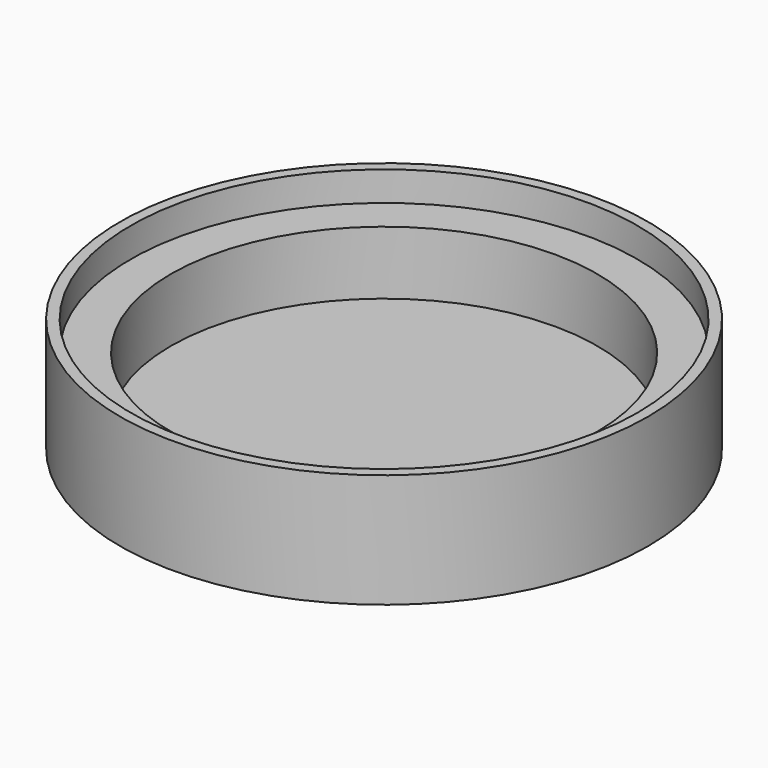
from build123d import *

# Parameters (mm, degrees)
F0_R     = 12.5
F0_R_2   = 12
F1_DEPTH = 5.4
F2_R     = 12.5
F3_DEPTH = 1
F4_R     = 12.5
F4_R_2   = 10.1
F5_DEPTH = 4


with BuildPart() as f1:
    # F0 (on Top) → F1 (new body)
    with BuildSketch(Plane.XY):
        Circle(F0_R)
        Circle(F0_R_2, mode=Mode.SUBTRACT)
    extrude(amount=F1_DEPTH)

    # F2 (on Top) → F3 (join)
    with BuildSketch(Plane.XY):
        Circle(F2_R)
    extrude(amount=F3_DEPTH)

    # F4 (on Top) → F5 (join)
    with BuildSketch(Plane.XY):
        Circle(F4_R)
        Circle(F4_R_2, mode=Mode.SUBTRACT)
    extrude(amount=F5_DEPTH)


solid = f1.part
